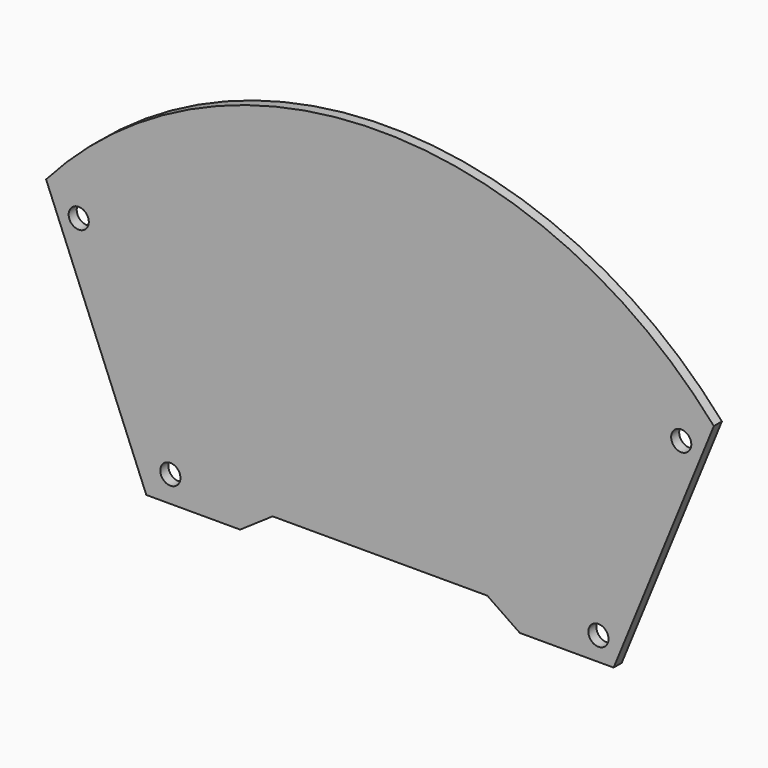
from build123d import *

# Parameters (mm, degrees)
F1_DEPTH = 1.27
F2_D     = 2.54


with BuildPart() as f1:
    # F0 (on Front) → F1 (new body)
    with BuildSketch(Plane.XZ):
        Polygon((-12.635026, -30.91795), (0, 0), (-84.186625, 0), (-71.551599, -30.91795), (-59.722818, -30.91795), (-55.625792, -28.112652), (-28.560833, -28.112652), (-24.463807, -30.91795), align=None)
        with BuildLine():
            Line((-84.186625, 0), (0, 0))
            ThreePointArc((0, 0), (-42.093312, 19.05), (-84.186625, 0))
        make_face()
    extrude(amount=-F1_DEPTH)

    # F2 (through all)
    with Locations(Plane.XZ):
        with Locations((-80.071018, -2.97795), (-4.115606, -2.97795), (-14.554258, -27.963797), (-68.519482, -27.636736)):
            Hole(F2_D / 2)


solid = f1.part
